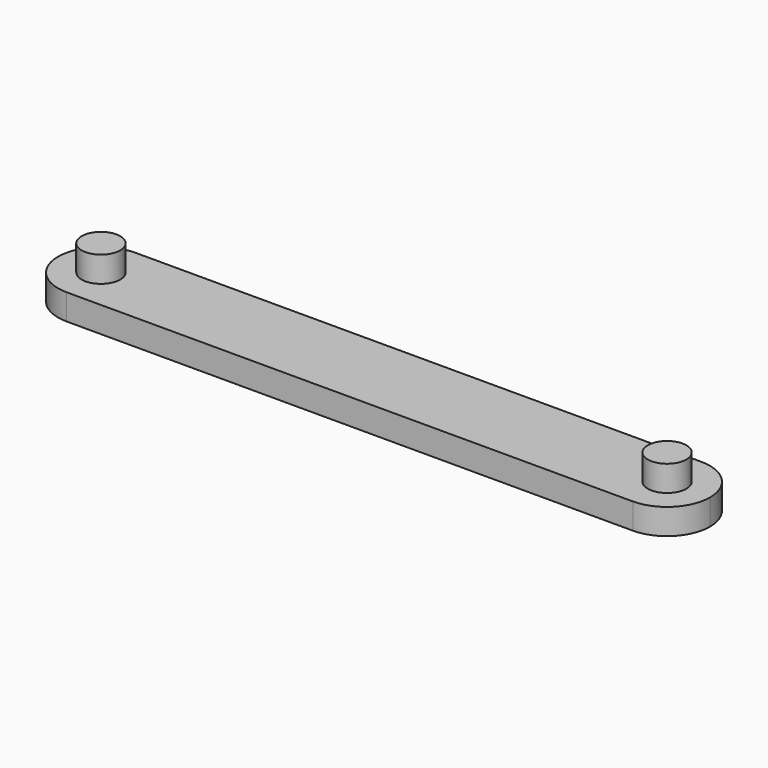
from build123d import *

# Parameters (mm, degrees)
F1_DEPTH = 3
F2_R     = 2.25
F3_DEPTH = 3


with BuildPart() as f1:
    # F0 (on Top) → F1 (new body)
    with BuildSketch(Plane.XY):
        with BuildLine():
            Line((-33, -5), (-33, 5))
            ThreePointArc((-33, 5), (-38, 0), (-33, -5))
        make_face()
        with BuildLine():
            ThreePointArc((-28, 0), (-29.464466, 3.535534), (-33, 5))
            Line((-33, 5), (-33, -5))
            ThreePointArc((-33, -5), (-29.464466, -3.535534), (-28, 0))
        make_face()
        with BuildLine():
            Line((33, 5), (-33, 5))
            ThreePointArc((-33, 5), (-29.464466, 3.535534), (-28, 0))
            ThreePointArc((-28, 0), (-29.464466, -3.535534), (-33, -5))
            Line((-33, -5), (33, -5))
            ThreePointArc((33, -5), (28, 0), (33, 5))
        make_face()
        with BuildLine():
            Line((33, -5), (33, 5))
            ThreePointArc((33, 5), (28, 0), (33, -5))
        make_face()
        with BuildLine():
            ThreePointArc((38, 0), (36.535534, 3.535534), (33, 5))
            Line((33, 5), (33, -5))
            ThreePointArc((33, -5), (36.535534, -3.535534), (38, 0))
        make_face()
    extrude(amount=F1_DEPTH)

    # F2 (on face) → F3 (join)
    with BuildSketch(Plane.XY.offset(3)):
        with Locations((-33, 0)):
            Circle(F2_R)
        with Locations((33, 0)):
            Circle(F2_R)
    extrude(amount=F3_DEPTH)


solid = f1.part
